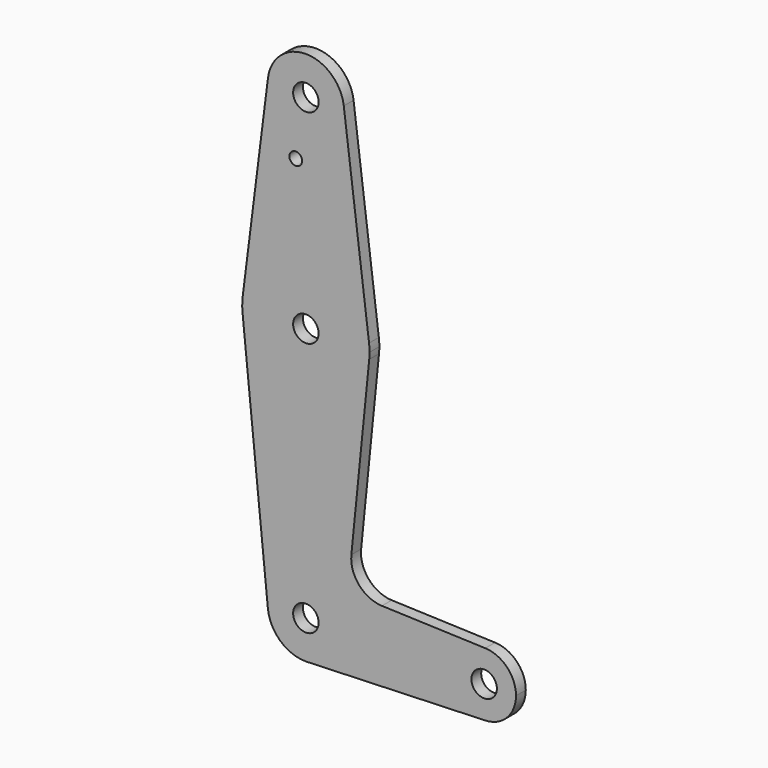
from build123d import *

# Parameters (mm, degrees)
F0_R     = 3.175
F0_R_2   = 1.5875
F1_DEPTH = 3.048


with BuildPart() as f1:
    # F0 (on Front) → F1 (new body)
    with BuildSketch(Plane.XZ):
        with BuildLine():
            ThreePointArc((0.677344, -9.500886), (6.970557, -6.491299), (9.525, 0))
            ThreePointArc((9.525, 0), (-0.476848, 9.513056), (-9.477255, -0.9525))
            ThreePointArc((-9.477255, -0.9525), (-6.389564, -7.063929), (0, -9.525))
            Line((0, -9.525), (0.677344, -9.500886))
        make_face()
        Circle(F0_R, mode=Mode.SUBTRACT)
        with BuildLine():
            ThreePointArc((-9.477255, -0.9525), (-0.476848, 9.513056), (9.525, 0))
            ThreePointArc((9.525, 0), (6.970557, -6.491299), (0.677344, -9.500886))
            Line((0.677344, -9.500886), (44.732405, -7.932475))
            ThreePointArc((44.732405, -7.932475), (36.5125, 0), (44.732405, 7.932475))
            Line((44.732405, 7.932475), (18.968328, 8.849706))
            ThreePointArc((18.968328, 8.849706), (13.261204, 11.567463), (11.340836, 17.589892))
            Line((11.340836, 17.589892), (15.795426, 61.9125))
            ThreePointArc((15.795426, 61.9125), (0, 47.625), (-15.795426, 61.9125))
            Line((-15.795426, 61.9125), (-9.477255, -0.9525))
        make_face()
        with BuildLine():
            ThreePointArc((0, -9.525), (0.338886, -9.51897), (0.677344, -9.500886))
            Line((0.677344, -9.500886), (0, -9.525))
        make_face()
        with BuildLine():
            ThreePointArc((-15.750488, 65.484375), (-15.873744, 63.699705), (-15.795426, 61.9125))
            ThreePointArc((-15.795426, 61.9125), (0, 47.625), (15.795426, 61.9125))
            ThreePointArc((15.795426, 61.9125), (15.855094, 62.705253), (15.875, 63.5))
            ThreePointArc((15.875, 63.5), (15.843841, 64.494139), (15.750488, 65.484375))
            ThreePointArc((15.750488, 65.484375), (0, 79.375), (-15.750488, 65.484375))
        make_face()
        with Locations((0, 63.5)):
            Circle(F0_R, mode=Mode.SUBTRACT)
        with BuildLine():
            ThreePointArc((44.732405, 7.932475), (36.5125, 0), (44.732405, -7.932475))
            ThreePointArc((44.732405, -7.932475), (50.161633, -5.51191), (52.3875, 0))
            ThreePointArc((52.3875, 0), (50.161633, 5.51191), (44.732405, 7.932475))
        make_face()
        with Locations((44.45, 0)):
            Circle(F0_R, mode=Mode.SUBTRACT)
        with BuildLine():
            Line((-9.450293, 115.490625), (-15.750488, 65.484375))
            ThreePointArc((-15.750488, 65.484375), (0, 79.375), (15.750488, 65.484375))
            Line((15.750488, 65.484375), (9.450293, 115.490625))
            ThreePointArc((9.450293, 115.490625), (9.506305, 114.896483), (9.525, 114.3))
            ThreePointArc((9.525, 114.3), (-0.596483, 104.793695), (-9.450293, 115.490625))
        make_face()
        with Locations((-2.524843, 100.0252)):
            Circle(F0_R_2, mode=Mode.SUBTRACT)
        with BuildLine():
            ThreePointArc((9.450293, 115.490625), (0, 123.825), (-9.450293, 115.490625))
            ThreePointArc((-9.450293, 115.490625), (-0.596483, 104.793695), (9.525, 114.3))
            ThreePointArc((9.525, 114.3), (9.506305, 114.896483), (9.450293, 115.490625))
        make_face()
        with Locations((0, 114.3)):
            Circle(F0_R, mode=Mode.SUBTRACT)
    extrude(amount=F1_DEPTH)


solid = f1.part
